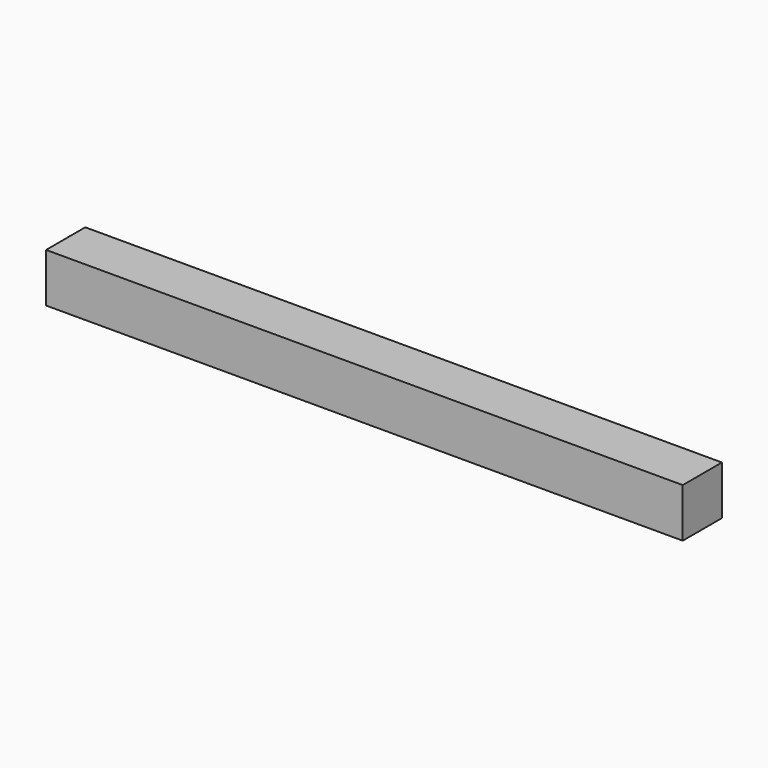
from build123d import *

# Parameters (mm, degrees)
F0_W      = 685.8
F0_H      = 50.8
F1_DEPTH  = 50.8
F1_FACE_W = 50.8
F1_FACE_H = 50.8
F2_DEPTH  = 25.4


with BuildPart() as f1:
    # F0 (on Top) → F1 (new body)
    with BuildSketch(Plane.XY):
        with Locations((159.937627, 1.990075)):
            Rectangle(F0_W, F0_H)
    extrude(amount=F1_DEPTH)

    # F1_face (on face) → F2 (cut)
    with BuildSketch(Plane(origin=(-182.962373, 1.990075, 25.4), x_dir=(0, -1, 0), z_dir=(-1, 0, 0))):
        Rectangle(F1_FACE_W, F1_FACE_H)
    extrude(amount=-F2_DEPTH, mode=Mode.SUBTRACT)


solid = f1.part
